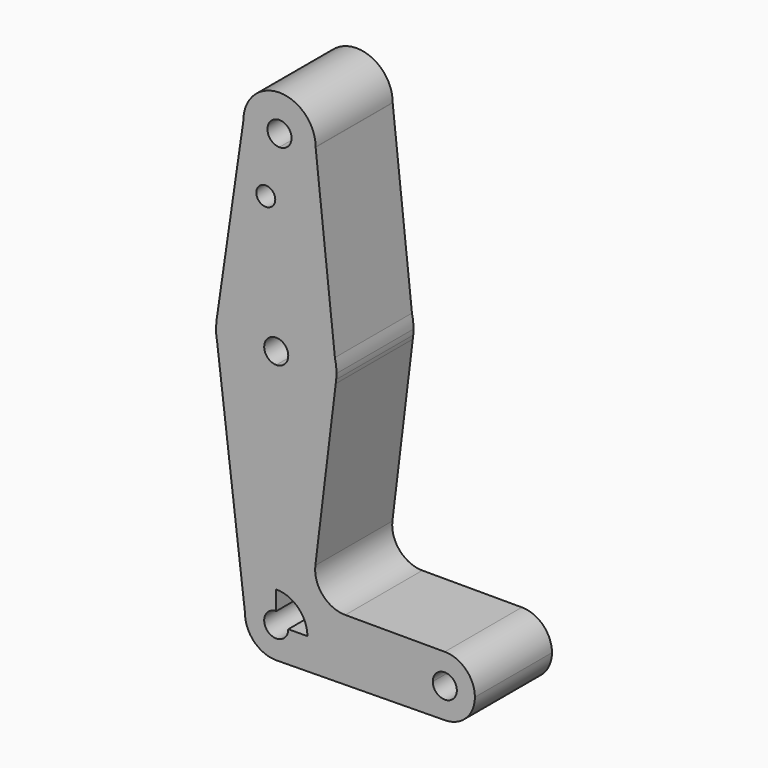
from build123d import *

# Parameters (mm, degrees)
F0_R     = 2.4970860884
F1_DEPTH = 25.4


with BuildPart() as f1:
    # F0 (on Front) → F1 (new body)
    with BuildSketch(Plane.XZ):
        with BuildLine():
            ThreePointArc((-34.058996731, 41.8151793819), (-34.0587916512, 41.8512656744), (-34.058723291, 41.8873524848))
            ThreePointArc((-34.058723291, 41.8873524848), (-43.6204916456, 51.412281518), (-53.108439425, 41.8138163235))
            ThreePointArc((-53.108439425, 41.8138163235), (-50.3500442403, 35.1834337942), (-43.7455028396, 32.3637264748))
            ThreePointArc((-43.7455028396, 32.3637264748), (-36.931754808, 35.0699526651), (-34.058996731, 41.8151793819))
        make_face()
        with BuildLine():
            ThreePointArc((-40.408723291, 41.8873524848), (-41.3578068156, 39.6233028289), (-43.6376498072, 38.7128104815))
            ThreePointArc((-43.6376498072, 38.7128104815), (-45.8096397664, 44.1514021407), (-40.408723291, 41.8873524848))
        make_face(mode=Mode.SUBTRACT)
        with BuildLine():
            ThreePointArc((-43.7455028396, 32.3637264748), (-50.3500442403, 35.1834337942), (-53.108439425, 41.8138163235))
            Line((-53.108439425, 41.8138163235), (-60.1423228458, -6.5331159404))
            ThreePointArc((-60.1423228458, -6.5331159404), (-54.6939631735, 3.2120648216), (-44.1770394505, 6.9600625014))
            Line((-44.1770394505, 6.9600625014), (-43.7455028396, 32.3637264748))
        make_face()
        with Locations((-47.1983999014, 26.2127500027)):
            Circle(F0_R, mode=Mode.SUBTRACT)
        with BuildLine():
            Line((-28.9755803483, -5.3544250476), (-34.058996731, 41.8151793819))
            ThreePointArc((-34.058996731, 41.8151793819), (-36.931754808, 35.0699526651), (-43.7455028396, 32.3637264748))
            Line((-43.7455028396, 32.3637264748), (-44.1770394505, 6.9600625014))
            ThreePointArc((-44.1770394505, 6.9600625014), (-34.4539621393, 3.4227233349), (-28.9755803483, -5.3544250476))
        make_face()
        with BuildLine():
            Line((-60.1696796465, -6.7211510996), (-60.1423228458, -6.5331159404))
            ThreePointArc((-60.1423228458, -6.5331159404), (-60.156282583, -6.6270925889), (-60.1696796465, -6.7211510996))
        make_face()
        with BuildLine():
            ThreePointArc((-44.1770394505, 6.9600625014), (-54.6939631735, 3.2120648216), (-60.1423228458, -6.5331159404))
            Line((-60.1423228458, -6.5331159404), (-60.1696796465, -6.7211510996))
            ThreePointArc((-60.1696796465, -6.7211510996), (-60.3127983863, -9.4433635349), (-59.9880891038, -12.149927297))
            ThreePointArc((-59.9880891038, -12.149927297), (-54.4622551015, -21.2294539506), (-44.4466720315, -24.7876475152))
            Line((-44.4466720315, -24.7876475152), (-44.4466720315, -12.0876475152))
            ThreePointArc((-44.4466720315, -12.0876475152), (-47.6215575303, -8.8856832847), (-44.3927455153, -5.7381055119))
            Line((-44.3927455153, -5.7381055119), (-44.1770394505, 6.9600625014))
        make_face()
        with BuildLine():
            ThreePointArc((-28.5716720315, -8.9126475152), (-28.6729723153, -7.1221106504), (-28.9755803483, -5.3544250476))
            ThreePointArc((-28.9755803483, -5.3544250476), (-34.4539621393, 3.4227233349), (-44.1770394505, 6.9600625014))
            Line((-44.1770394505, 6.9600625014), (-44.3927455153, -5.7381055119))
            ThreePointArc((-44.3927455153, -5.7381055119), (-42.1826223756, -6.6867310398), (-41.2716720315, -8.9126475152))
            ThreePointArc((-41.2716720315, -8.9126475152), (-42.2016080012, -11.1577115455), (-44.4466720315, -12.0876475152))
            Line((-44.4466720315, -12.0876475152), (-44.4466720315, -24.7876475152))
            ThreePointArc((-44.4466720315, -24.7876475152), (-34.115422457, -20.9659004882), (-28.7584623121, -11.3407539379))
            Line((-28.7584623121, -11.3407539379), (-28.6355797608, -10.3356676158))
            ThreePointArc((-28.6355797608, -10.3356676158), (-28.5876570117, -9.6248747269), (-28.5716720315, -8.9126475152))
        make_face()
        with BuildLine():
            ThreePointArc((-44.4466720315, -24.7876475152), (-54.4622551015, -21.2294539506), (-59.9880891038, -12.149927297))
            Line((-59.9880891038, -12.149927297), (-52.6740726434, -72.4126475152))
            ThreePointArc((-52.6740726434, -72.4126475152), (-50.2643227957, -66.594996751), (-44.4466720315, -64.1852469033))
            Line((-44.4466720315, -64.1852469033), (-44.4466720315, -24.7876475152))
        make_face()
        with BuildLine():
            ThreePointArc((-28.7584623121, -11.3407539379), (-28.68900545, -10.839190768), (-28.6355797608, -10.3356676158))
            Line((-28.6355797608, -10.3356676158), (-28.7584623121, -11.3407539379))
        make_face()
        with BuildLine():
            ThreePointArc((-28.7584623121, -11.3407539379), (-34.115422457, -20.9659004882), (-44.4466720315, -24.7876475152))
            Line((-44.4466720315, -24.7876475152), (-44.4466720315, -64.1852469033))
            ThreePointArc((-44.4466720315, -64.1852469033), (-38.6456689688, -66.5783965525), (-36.2194057783, -72.3656280761))
            Line((-36.2194057783, -72.3656280761), (-7.9373703756, -72.2039941384))
            ThreePointArc((-7.9373703756, -72.2039941384), (-5.6286753497, -66.5620325034), (0, -64.2211314758))
            Line((0, -64.2211314758), (-26.2460871779, -64.1999413714))
            ThreePointArc((-26.2460871779, -64.1999413714), (-32.1947833248, -61.5168387322), (-34.1311079114, -55.2849311015))
            Line((-34.1311079114, -55.2849311015), (-28.7584623121, -11.3407539379))
        make_face()
        with BuildLine():
            ThreePointArc((-44.4466720315, -64.1852469033), (-50.2643227957, -66.594996751), (-52.6740726434, -72.4126475152))
            ThreePointArc((-52.6740726434, -72.4126475152), (-50.2643227957, -78.2302982795), (-44.4466720315, -80.6400481271))
            Line((-44.4466720315, -80.6400481271), (-44.2453363669, -80.6375842797))
            ThreePointArc((-44.2453363669, -80.6375842797), (-38.5582685977, -78.1586744756), (-36.2192714196, -72.4126475152))
            ThreePointArc((-36.2192714196, -72.4126475152), (-36.2193050093, -72.3891376997), (-36.2194057783, -72.3656280761))
            Line((-36.2194057783, -72.3656280761), (-41.2717238813, -72.3945024502))
            ThreePointArc((-41.2717238813, -72.3945024502), (-41.271684994, -72.4035749457), (-41.2716720315, -72.4126475152))
            ThreePointArc((-41.2716720315, -72.4126475152), (-46.6917360618, -74.6577115455), (-44.4466720315, -69.2376475152))
            Line((-44.4466720315, -69.2376475152), (-44.4466720315, -64.1852469033))
        make_face()
        with BuildLine():
            Line((-44.2453363669, -80.6375842797), (-44.4466720315, -80.6400481271))
            ThreePointArc((-44.4466720315, -80.6400481271), (-44.3459966616, -80.6394321422), (-44.2453363669, -80.6375842797))
        make_face()
        with BuildLine():
            Line((-7.9373703756, -72.2039941384), (-36.2194057783, -72.3656280761))
            ThreePointArc((-36.2194057783, -72.3656280761), (-36.2193050093, -72.3891376997), (-36.2192714196, -72.4126475152))
            ThreePointArc((-36.2192714196, -72.4126475152), (-38.5582685977, -78.1586744756), (-44.2453363669, -80.6375842797))
            Line((-44.2453363669, -80.6375842797), (0, -80.0961314758))
            ThreePointArc((0, -80.0961314758), (-5.5965989724, -77.7873068255), (-7.9373703756, -72.2039941384))
        make_face()
        with BuildLine():
            ThreePointArc((0, -64.2211314758), (-5.6286753497, -66.5620325034), (-7.9373703756, -72.2039941384))
            ThreePointArc((-7.9373703756, -72.2039941384), (-5.5965989724, -77.7873068255), (0, -80.0961314758))
            ThreePointArc((0, -80.0961314758), (5.6126600757, -77.7712915515), (7.9375, -72.1586314758))
            ThreePointArc((7.9375, -72.1586314758), (5.6126600757, -66.5459714001), (0, -64.2211314758))
        make_face()
        with BuildLine():
            ThreePointArc((3.175, -72.1586314758), (0.0090725696, -75.3336185133), (-3.1749481502, -72.1767765408))
            ThreePointArc((-3.1749481502, -72.1767765408), (-0.0090725696, -68.9836444383), (3.175, -72.1586314758))
        make_face(mode=Mode.SUBTRACT)
    extrude(amount=F1_DEPTH)


solid = f1.part
